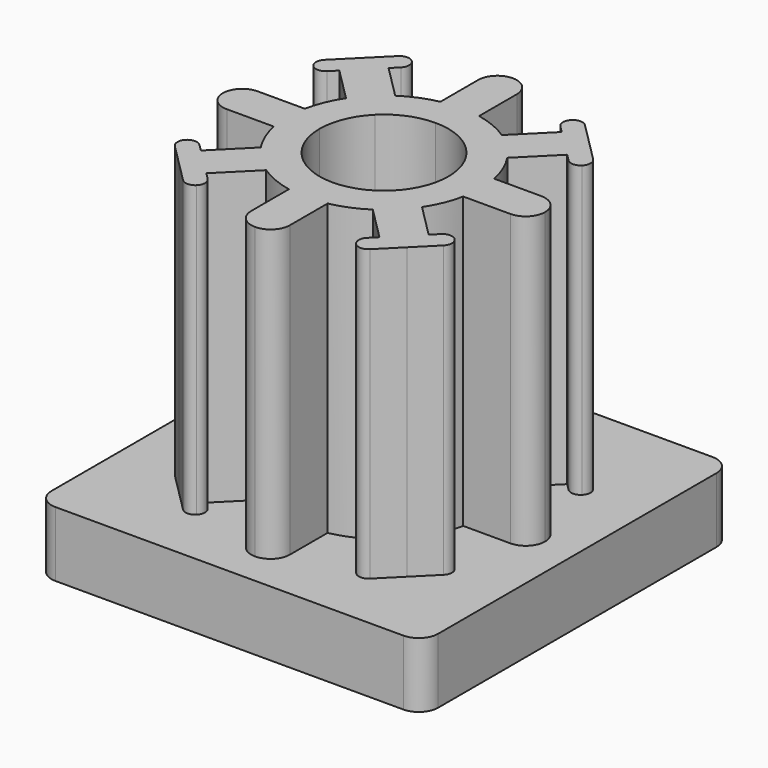
from build123d import *

# Parameters (mm, degrees)
F0_W     = 60
F0_H     = 60
F1_DEPTH = 10.1
F2_R     = 3
F4_DEPTH = 45
F5_R     = 10
F6_DEPTH = 10.1


with BuildPart() as f1:
    # F0 (on Top) → F1 (new body)
    with BuildSketch(Plane.XY):
        Rectangle(F0_W, F0_H)
    extrude(amount=F1_DEPTH)

    # F2
    f2_edges = [f1.edges().sort_by_distance(p)[0] for p in [
        (30, -30, 5.05),
        (30, 30, 5.05),
        (-30, -30, 5.05),
        (-30, 30, 5.05),
    ]]
    fillet(f2_edges, radius=F2_R)

    # F3 (on face) → F4 (join)
    with BuildSketch(Plane.XY.offset(10.1)):
        with BuildLine():
            Line((-17.67767, 13.435029), (-12.513625, 8.270985))
            ThreePointArc((-12.513625, 8.270985), (-13.858193, 5.740251), (-14.696938, 3))
            Line((-14.696938, 3), (-22, 3))
            ThreePointArc((-22, 3), (-24.12132, 2.12132), (-25, 0))
            ThreePointArc((-25, 0), (-24.12132, -2.12132), (-22, -3))
            Line((-22, -3), (-14.696938, -3))
            ThreePointArc((-14.696938, -3), (-13.858193, -5.740251), (-12.513625, -8.270985))
            Line((-12.513625, -8.270985), (-17.67767, -13.435029))
            Line((-17.67767, -13.435029), (-18.73833, -12.374369))
            ThreePointArc((-18.73833, -12.374369), (-19.79899, -11.935029), (-20.85965, -12.374369))
            ThreePointArc((-20.85965, -12.374369), (-21.29899, -13.435029), (-20.85965, -14.495689))
            Line((-20.85965, -14.495689), (-17.67767, -17.67767))
            Line((-17.67767, -17.67767), (-14.495689, -20.85965))
            ThreePointArc((-14.495689, -20.85965), (-13.435029, -21.29899), (-12.374369, -20.85965))
            ThreePointArc((-12.374369, -20.85965), (-11.935029, -19.79899), (-12.374369, -18.73833))
            Line((-12.374369, -18.73833), (-13.435029, -17.67767))
            Line((-13.435029, -17.67767), (-8.270985, -12.513625))
            ThreePointArc((-8.270985, -12.513625), (-5.740251, -13.858193), (-3, -14.696938))
            Line((-3, -14.696938), (-3, -22))
            ThreePointArc((-3, -22), (-2.12132, -24.12132), (0, -25))
            ThreePointArc((0, -25), (2.12132, -24.12132), (3, -22))
            Line((3, -22), (3, -14.696938))
            ThreePointArc((3, -14.696938), (5.740251, -13.858193), (8.270985, -12.513625))
            Line((8.270985, -12.513625), (13.435029, -17.67767))
            Line((13.435029, -17.67767), (12.374369, -18.73833))
            ThreePointArc((12.374369, -18.73833), (11.935029, -19.79899), (12.374369, -20.85965))
            ThreePointArc((12.374369, -20.85965), (13.435029, -21.29899), (14.495689, -20.85965))
            Line((14.495689, -20.85965), (17.67767, -17.67767))
            Line((17.67767, -17.67767), (20.85965, -14.495689))
            ThreePointArc((20.85965, -14.495689), (21.29899, -13.435029), (20.85965, -12.374369))
            ThreePointArc((20.85965, -12.374369), (19.79899, -11.935029), (18.73833, -12.374369))
            Line((18.73833, -12.374369), (17.67767, -13.435029))
            Line((17.67767, -13.435029), (12.513625, -8.270985))
            ThreePointArc((12.513625, -8.270985), (13.858193, -5.740251), (14.696938, -3))
            Line((14.696938, -3), (22, -3))
            ThreePointArc((22, -3), (24.12132, -2.12132), (25, 0))
            ThreePointArc((25, 0), (24.12132, 2.12132), (22, 3))
            Line((22, 3), (14.696938, 3))
            ThreePointArc((14.696938, 3), (13.858193, 5.740251), (12.513625, 8.270985))
            Line((12.513625, 8.270985), (17.67767, 13.435029))
            Line((17.67767, 13.435029), (18.73833, 12.374369))
            ThreePointArc((18.73833, 12.374369), (19.79899, 11.935029), (20.85965, 12.374369))
            ThreePointArc((20.85965, 12.374369), (21.29899, 13.435029), (20.85965, 14.495689))
            Line((20.85965, 14.495689), (17.67767, 17.67767))
            Line((17.67767, 17.67767), (14.495689, 20.85965))
            ThreePointArc((14.495689, 20.85965), (13.435029, 21.29899), (12.374369, 20.85965))
            ThreePointArc((12.374369, 20.85965), (11.935029, 19.79899), (12.374369, 18.73833))
            Line((12.374369, 18.73833), (13.435029, 17.67767))
            Line((13.435029, 17.67767), (8.270985, 12.513625))
            ThreePointArc((8.270985, 12.513625), (5.740251, 13.858193), (3, 14.696938))
            Line((3, 14.696938), (3, 22))
            ThreePointArc((3, 22), (2.12132, 24.12132), (0, 25))
            ThreePointArc((0, 25), (-2.12132, 24.12132), (-3, 22))
            Line((-3, 22), (-3, 14.696938))
            ThreePointArc((-3, 14.696938), (-5.740251, 13.858193), (-8.270985, 12.513625))
            Line((-8.270985, 12.513625), (-13.435029, 17.67767))
            Line((-13.435029, 17.67767), (-12.374369, 18.73833))
            ThreePointArc((-12.374369, 18.73833), (-11.935029, 19.79899), (-12.374369, 20.85965))
            ThreePointArc((-12.374369, 20.85965), (-13.435029, 21.29899), (-14.495689, 20.85965))
            Line((-14.495689, 20.85965), (-17.67767, 17.67767))
            Line((-17.67767, 17.67767), (-20.85965, 14.495689))
            ThreePointArc((-20.85965, 14.495689), (-21.29899, 13.435029), (-20.85965, 12.374369))
            ThreePointArc((-20.85965, 12.374369), (-19.79899, 11.935029), (-18.73833, 12.374369))
            Line((-18.73833, 12.374369), (-17.67767, 13.435029))
        make_face()
        with BuildLine():
            ThreePointArc((-10, 0), (-9.238795, 3.826834), (-7.071068, 7.071068))
            ThreePointArc((-7.071068, 7.071068), (-3.826834, 9.238795), (0, 10))
            ThreePointArc((0, 10), (3.826834, 9.238795), (7.071068, 7.071068))
            ThreePointArc((7.071068, 7.071068), (9.238795, 3.826834), (10, 0))
            ThreePointArc((10, 0), (9.238795, -3.826834), (7.071068, -7.071068))
            ThreePointArc((7.071068, -7.071068), (3.826834, -9.238795), (0, -10))
            ThreePointArc((0, -10), (-3.826834, -9.238795), (-7.071068, -7.071068))
            ThreePointArc((-7.071068, -7.071068), (-9.238795, -3.826834), (-10, 0))
        make_face(mode=Mode.SUBTRACT)
    extrude(amount=F4_DEPTH)

    # F5 (on face) → F6 (cut, through all)
    with BuildSketch(Plane(origin=(0, 0, 0), x_dir=(1, 0, 0), z_dir=(0, 0, -1))):
        Circle(F5_R)
    extrude(amount=-F6_DEPTH, mode=Mode.SUBTRACT)


solid = f1.part
